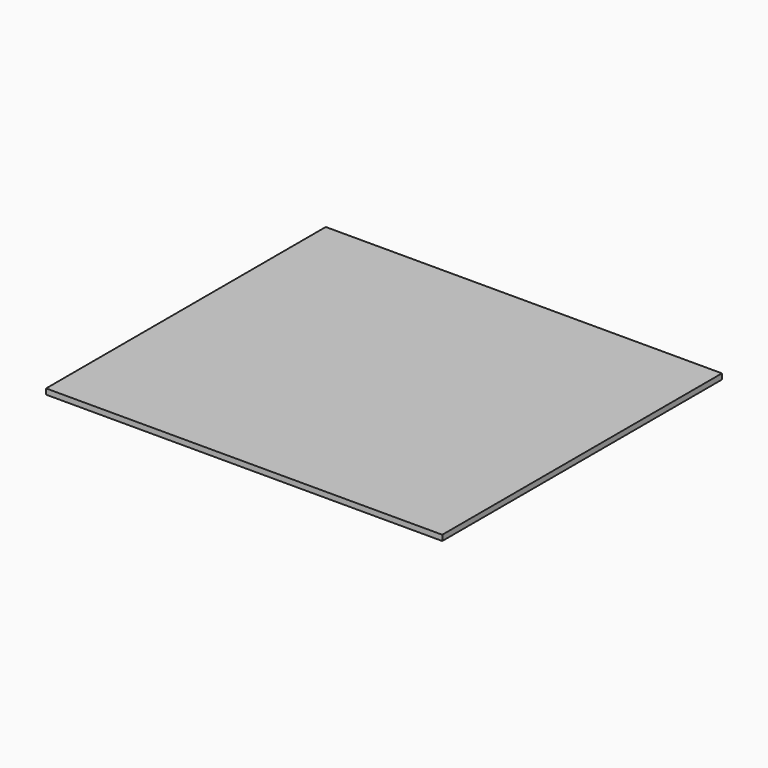
from build123d import *

# Parameters (mm, degrees)
SKETCH_W  = 71.568479
SKETCH_H  = 63.148666
PAD_DEPTH = 1


with BuildPart() as part:
    # Sketch → Pad (new body)
    with BuildSketch(Plane.XY):
        with Locations((33.821832, -29.911679)):
            Rectangle(SKETCH_W, SKETCH_H)
    extrude(amount=-PAD_DEPTH)


solid = part.part
